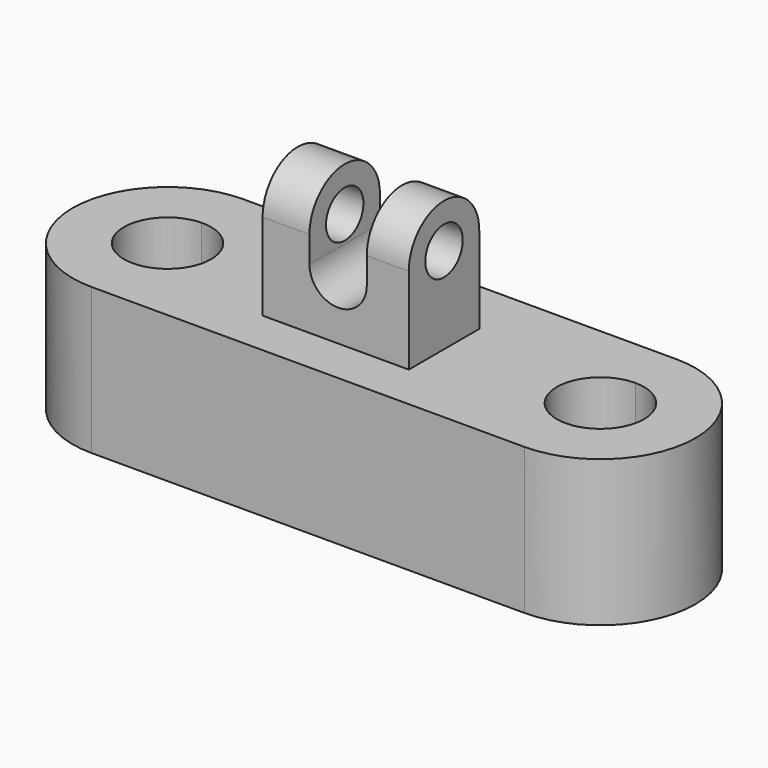
from build123d import *

# Parameters (mm, degrees)
F1_DEPTH = 25.4
F3_DEPTH = 12.7
F6_W     = 9.955159
F6_H     = 15.854515
F7_DEPTH = 12.7
F8_R     = 4.065218
F9_DEPTH = 25.654


with BuildPart() as f1:
    # F0 (on Top) → F1 (new body)
    with BuildSketch(Plane.XY):
        with BuildLine():
            Line((45.996532, 15.209274), (-29.404597, 15.209274))
            Line((-29.404597, 15.209274), (-29.353035, 6.275321))
            ThreePointArc((-29.353035, 6.275321), (-23.913131, 4.109294), (-21.647612, -1.289934))
            ThreePointArc((-21.647612, -1.289934), (-23.882058, -6.658477), (-29.265704, -8.856288))
            Line((-29.265704, -8.856288), (-29.214142, -17.790241))
            Line((-29.214142, -17.790241), (45.996532, -17.790241))
            Line((45.996532, -17.790241), (45.996532, -8.863065))
            ThreePointArc((45.996532, -8.863065), (38.42395, -1.290483), (45.996532, 6.282098))
            Line((45.996532, 6.282098), (45.996532, 15.209274))
        make_face()
        with BuildLine():
            Line((-29.353035, 6.275321), (-29.404597, 15.209274))
            ThreePointArc((-29.404597, 15.209274), (-45.714174, -1.385163), (-29.214142, -17.790241))
            Line((-29.214142, -17.790241), (-29.265704, -8.856288))
            ThreePointArc((-29.265704, -8.856288), (-36.780546, -1.333603), (-29.353035, 6.275321))
        make_face()
        with BuildLine():
            ThreePointArc((45.996532, -17.790241), (62.49629, -1.290483), (45.996532, 15.209274))
            Line((45.996532, 15.209274), (45.996532, 6.282098))
            ThreePointArc((45.996532, 6.282098), (51.351156, 4.06414), (53.569113, -1.290483))
            ThreePointArc((53.569113, -1.290483), (51.351156, -6.645107), (45.996532, -8.863065))
            Line((45.996532, -8.863065), (45.996532, -17.790241))
        make_face()
    extrude(amount=F1_DEPTH)


with BuildPart() as f3:
    # F2 (on Right) → F3 (new body, symmetric)
    with BuildSketch(Plane.YZ):
        Polygon((-9.862985, 40.465884), (-9.862985, 25.348788), (5.438465, 25.164433), (5.438465, 40.465884), align=None)
        with BuildLine():
            ThreePointArc((5.438465, 40.465884), (-2.21226, 48.116609), (-9.862985, 40.465884))
            Line((-9.862985, 40.465884), (5.438465, 40.465884))
        make_face()
    extrude(amount=F3_DEPTH, both=True)


with BuildPart() as f1_1:
    # F4: moved
    add(f1.part)


with BuildPart() as f3_1:
    # F5: moved
    add(f3.part.moved(Location((6.858, 0, 0))))

    # F6 (on Front) → F7 (cut, symmetric)
    with BuildSketch(Plane.XZ):
        with Locations((7.282014, 43.784275)):
            Rectangle(F6_W, F6_H)
        with BuildLine():
            Line((12.259594, 35.857018), (2.304435, 35.857018))
            ThreePointArc((2.304435, 35.857018), (7.282014, 30.879438), (12.259594, 35.857018))
        make_face()
    extrude(amount=F7_DEPTH, both=True, mode=Mode.SUBTRACT)

    # F8 (on face) → F9 (cut)
    with BuildSketch(Plane(origin=(-5.842, 0, 0), x_dir=(0, -1, 0), z_dir=(-1, 0, 0))):
        with Locations((2.21226, 40.465884)):
            Circle(F8_R)
    extrude(amount=-F9_DEPTH, mode=Mode.SUBTRACT)


solid = Compound([f1_1.part, f3_1.part])
